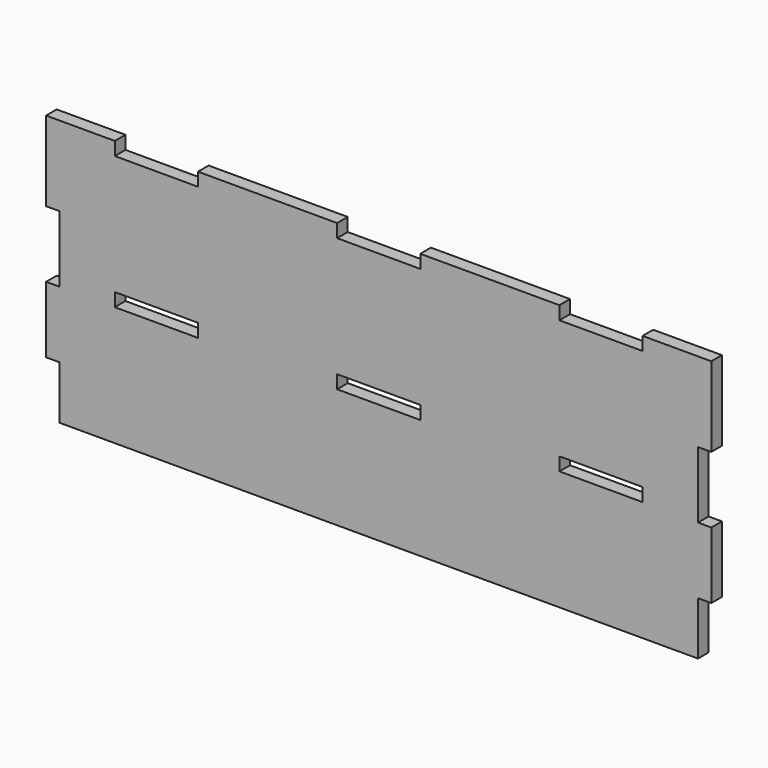
from build123d import *

# Parameters (mm, degrees)
F0_W     = 150
F0_H     = 60
F1_DEPTH = 3
F2_W     = 18.75
F2_H     = 3
F3_DEPTH = 3
F4_W     = 3
F4_H     = 15
F5_DEPTH = 3


with BuildPart() as f1:
    # F0 (on Front) → F1 (new body)
    with BuildSketch(Plane.XZ):
        Rectangle(F0_W, F0_H)
    extrude(amount=F1_DEPTH)

    # F2 (on face) → F3 (cut, through all)
    with BuildSketch(Plane.XZ.offset(3)):
        with Locations((-50.125, 28.5)):
            Rectangle(F2_W, F2_H)
        with Locations((-50.125, -1.5)):
            Rectangle(F2_W, F2_H)
        with Locations((0, 28.5)):
            Rectangle(F2_W, F2_H)
        with Locations((0, -1.5)):
            Rectangle(F2_W, F2_H)
        with Locations((50.125, 28.5)):
            Rectangle(F2_W, F2_H)
        with Locations((50.125, -1.5)):
            Rectangle(F2_W, F2_H)
    extrude(amount=-F3_DEPTH, mode=Mode.SUBTRACT)

    # F4 (on face) → F5 (cut, through all)
    with BuildSketch(Plane.XZ.offset(3)):
        with Locations((-73.5, 4.5)):
            Rectangle(F4_W, F4_H)
        with Locations((-73.5, -25.5)):
            Rectangle(F4_W, F4_H)
        with Locations((73.5, 4.5)):
            Rectangle(F4_W, F4_H)
        with Locations((73.5, -25.5)):
            Rectangle(F4_W, F4_H)
    extrude(amount=-F5_DEPTH, mode=Mode.SUBTRACT)


solid = f1.part
